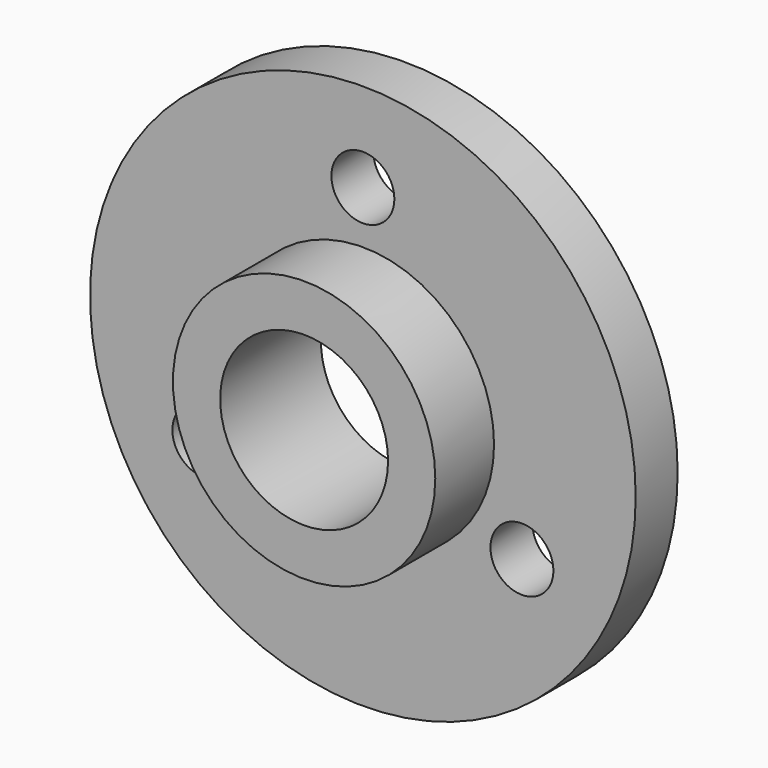
from build123d import *

# Parameters (mm, degrees)
F0_R     = 26
F1_DEPTH = 5
F2_R     = 12.5
F3_DEPTH = 7
F4_R     = 3
F5_DEPTH = 25
F6_R     = 8
F7_DEPTH = 25


with BuildPart() as f1:
    # F0 (on Front) → F1 (new body)
    with BuildSketch(Plane.XZ):
        Circle(F0_R)
    extrude(amount=F1_DEPTH)

    # F2 (on face) → F3 (join)
    with BuildSketch(Plane.XZ.offset(5)):
        Circle(F2_R)
    extrude(amount=F3_DEPTH)

    # F4 (on face) → F5 (cut)
    with BuildSketch(Plane.XZ.offset(5)):
        with Locations((0, 17.5)):
            Circle(F4_R)
        with Locations((-15.155445, -8.75)):
            Circle(F4_R)
        with Locations((15.155445, -8.75)):
            Circle(F4_R)
    extrude(amount=-F5_DEPTH, mode=Mode.SUBTRACT)

    # F6 (on face) → F7 (cut)
    with BuildSketch(Plane.XZ.offset(12)):
        Circle(F6_R)
    extrude(amount=-F7_DEPTH, mode=Mode.SUBTRACT)


solid = f1.part
